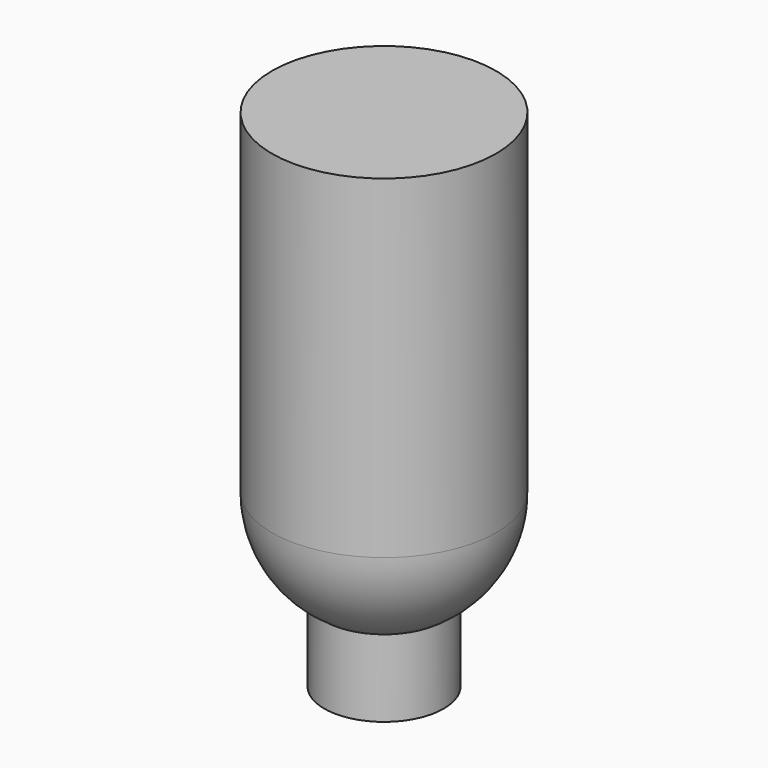
from build123d import *

# Parameters (mm, degrees)
F1_ANGLE = -180
F2_R     = 152.4
F3_DEPTH = 438.15
F4_R     = 285.75
F5_DEPTH = 850.9


with BuildPart() as f1:
    # F0 (on Top) → F1 (revolve)
    with BuildSketch(Plane.XY):
        with BuildLine():
            Line((0, 0), (285.75, 0))
            ThreePointArc((285.75, 0), (0, 285.75), (-285.75, 0))
            Line((-285.75, 0), (0, 0))
        make_face()
    revolve(axis=Axis((142.875, 0, 0), (1, 0, 0)), revolution_arc=F1_ANGLE)

    # F2 (on face) → F3 (join)
    with BuildSketch(Plane.XY):
        Circle(F2_R)
    extrude(amount=-F3_DEPTH)

    # F4 (on face) → F5 (join)
    with BuildSketch(Plane.XY):
        Circle(F4_R)
    extrude(amount=F5_DEPTH)


solid = f1.part
